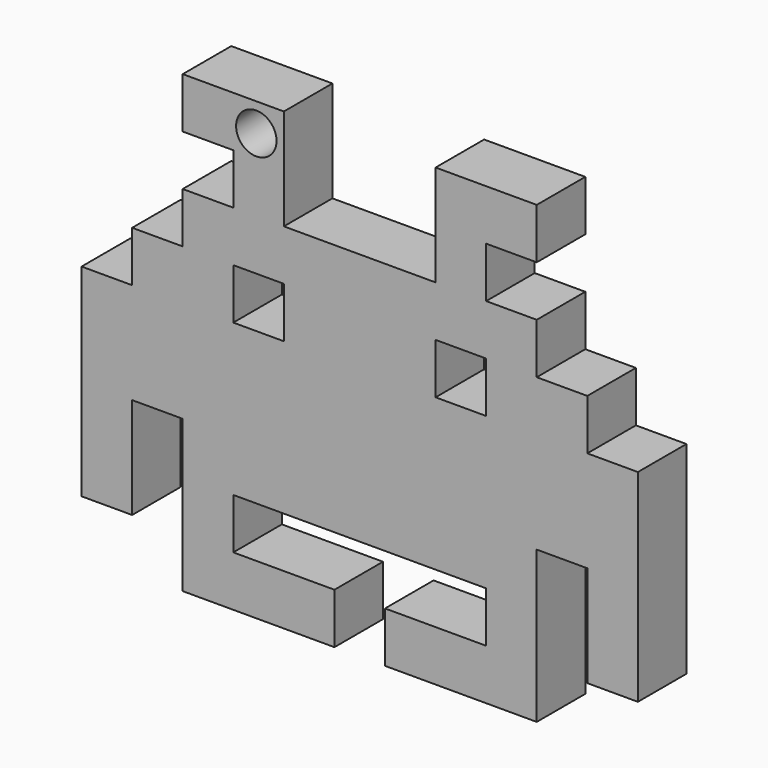
from build123d import *

# Parameters (mm, degrees)
F1_DEPTH = 7.62
F2_W     = 6.35
F2_H     = 6.35
F3_DEPTH = 7.62
F4_R     = 2.54
F5_DEPTH = 7.62


with BuildPart() as f1:
    # F0 (on Front) → F1 (new body)
    with BuildSketch(Plane.XZ):
        Polygon((-19.05, 0), (0, 0), (0, 6.35), (-12.7, 6.35), (-12.7, 12.7), (19.05, 12.7), (19.05, 6.35), (6.35, 6.35), (6.35, 0), (25.4, 0), (25.4, 19.05), (31.75, 19.05), (31.75, 6.35), (38.1, 6.35), (38.1, 31.75), (31.75, 31.75), (31.75, 38.1), (25.4, 38.1), (25.4, 44.45), (19.05, 44.45), (19.05, 50.8), (25.4, 50.8), (25.4, 57.15), (12.7, 57.15), (12.7, 44.45), (-6.35, 44.45), (-6.35, 57.15), (-19.05, 57.15), (-19.05, 50.8), (-12.7, 50.8), (-12.7, 44.45), (-19.05, 44.45), (-19.05, 38.1), (-25.4, 38.1), (-25.4, 31.75), (-31.75, 31.75), (-31.75, 6.35), (-25.4, 6.35), (-25.4, 19.05), (-19.05, 19.05), align=None)
    extrude(amount=F1_DEPTH)

    # F2 (on face) → F3 (cut)
    with BuildSketch(Plane.XZ.offset(7.62)):
        with Locations((-9.525, 34.925)):
            Rectangle(F2_W, F2_H)
        with Locations((15.875, 34.925)):
            Rectangle(F2_W, F2_H)
    extrude(amount=-F3_DEPTH, mode=Mode.SUBTRACT)

    # F4 (on face) → F5 (cut)
    with BuildSketch(Plane.XZ.offset(7.62)):
        with Locations((-9.809578, 53.594287)):
            Circle(F4_R)
    extrude(amount=-F5_DEPTH, mode=Mode.SUBTRACT)


solid = f1.part
